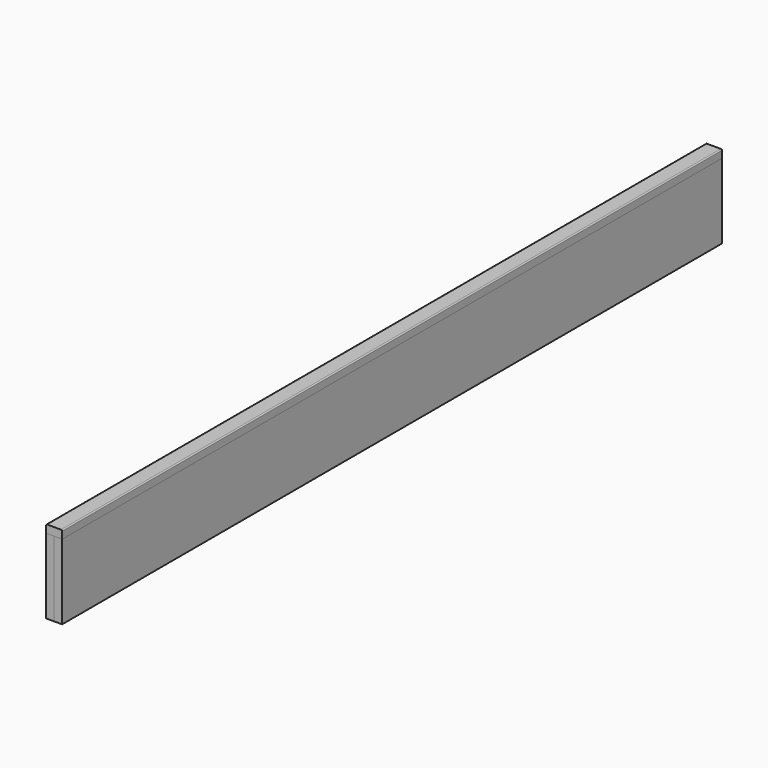
from build123d import *

# Parameters (mm, degrees)
F0_W     = 1955.8
F0_H     = 177.8
F1_DEPTH = 19.05
F2_W     = 1955.8
F2_H     = 177.8
F3_DEPTH = 19.05
F5_DEPTH = 1955.8
F6_R     = 2.54


with BuildPart() as f1:
    # F0 (on Right) → F1 (new body)
    with BuildSketch(Plane.YZ):
        with Locations((-977.9, 88.9)):
            Rectangle(F0_W, F0_H)
    extrude(amount=F1_DEPTH)


with BuildPart() as f3:
    # F2 (on face) → F3 (new body)
    with BuildSketch(Plane.YZ.offset(19.05)):
        with Locations((-977.9, 88.9)):
            Rectangle(F2_W, F2_H)
    extrude(amount=F3_DEPTH)


with BuildPart() as f5:
    # F4 (on face) → F5 (new body, through all)
    with BuildSketch(Plane.XZ.offset(1955.8)):
        Polygon((0, 196.85), (0, 177.8), (19.05, 177.8), (38.1, 177.8), (38.1, 196.85), align=None)
    extrude(amount=-F5_DEPTH)

    # F6
    f6_edges = [f5.edges().sort_by_distance(p)[0] for p in [
        (0, -977.9, 196.85),
        (38.1, -977.9, 196.85),
    ]]
    fillet(f6_edges, radius=F6_R)


solid = Compound([f1.part, f3.part, f5.part])
